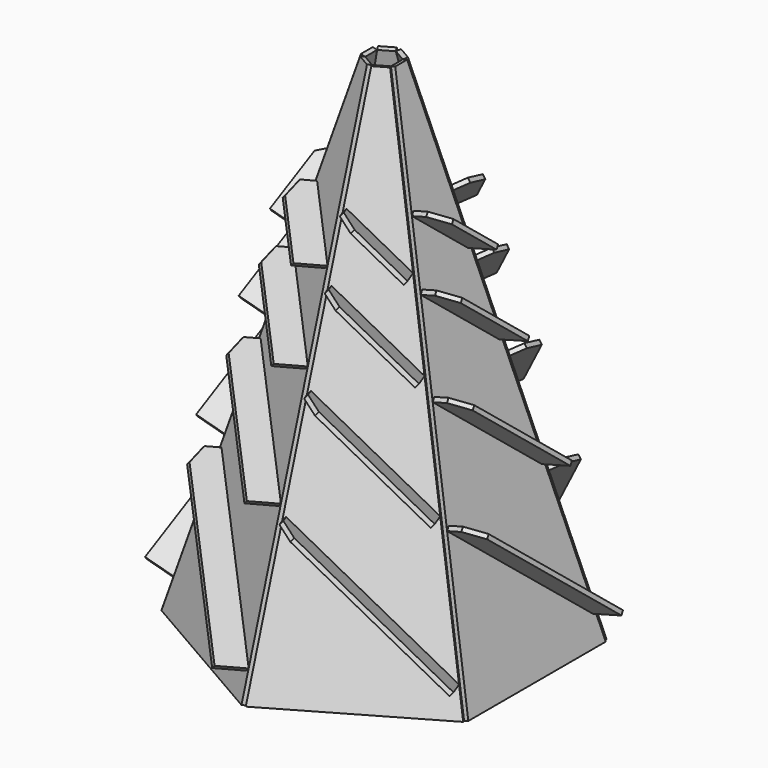
from build123d import *

# Parameters (mm, degrees)
F2_DEPTH = 3
F4_DEPTH = 20
F5_SIZE  = 10
F7_ANGLE = -15.2
F8_COUNT = 6


with BuildPart() as f2:
    # F1 (on Right) → F2 (new body)
    with BuildSketch(Plane.YZ):
        Polygon((53, 389.6280347522), (0, 39.6280347522), (116, 39.6280347522), (63, 389.6280347522), align=None)
    extrude(amount=F2_DEPTH)

    # F3 (on face) → F4 (join)
    with BuildSketch(Plane.YZ.offset(3)):
        Polygon((42.8633559657, 311.8839011901), (40.8857142857, 309.6280347522), (77.6795011771, 277.3721683144), (79.6571428571, 279.6280347522), align=None)
        Polygon((36.4869094646, 269.7752922205), (34.5092677846, 267.5194257826), (86.0080726057, 222.3721683144), (87.9857142857, 224.6280347522), align=None)
        Polygon((27.7917551449, 212.3544618074), (25.8141134649, 210.0985953695), (97.3652154629, 147.3721683144), (99.3428571429, 149.6280347522), align=None)
        Polygon((17.3575699613, 143.4494653117), (15.3799282813, 141.1935988738), (110.9937868914, 57.3721683144), (112.9714285714, 59.6280347522), align=None)
    extrude(amount=F4_DEPTH)

    # F5
    f5_edges = [f2.edges().sort_by_distance(p)[0] for p in [
        (23, 41.874535, 310.755968),
        (23, 35.498089, 268.647359),
        (23, 26.802934, 211.226529),
        (23, 16.368749, 142.321532),
    ]]
    chamfer(f5_edges, length=F5_SIZE)


with BuildPart() as f2_1:
    # F6: moved
    add(f2.part.moved(Location((100.458946839, -58, 0))))


with BuildPart() as f2_2:
    # F7: moved
    add(f2_1.part.rotate(Axis((100.458946839, 0, 39.6280347522), (0, 1, 0)), F7_ANGLE))


with BuildPart() as f8_1:
    # F8: instance of F2
    add(f2_2.part.rotate(Axis((0, 0, 15.9257594496), (0, 0, 1)), 1 * 360 / F8_COUNT))


with BuildPart() as f8_2:
    # F8: instance of F2
    add(f2_2.part.rotate(Axis((0, 0, 15.9257594496), (0, 0, 1)), 2 * 360 / F8_COUNT))


with BuildPart() as f8_3:
    # F8: instance of F2
    add(f2_2.part.rotate(Axis((0, 0, 15.9257594496), (0, 0, 1)), 3 * 360 / F8_COUNT))


with BuildPart() as f8_4:
    # F8: instance of F2
    add(f2_2.part.rotate(Axis((0, 0, 15.9257594496), (0, 0, 1)), 4 * 360 / F8_COUNT))


with BuildPart() as f8_5:
    # F8: instance of F2
    add(f2_2.part.rotate(Axis((0, 0, 15.9257594496), (0, 0, 1)), 5 * 360 / F8_COUNT))


solid = Compound([f2_2.part, f8_1.part, f8_2.part, f8_3.part, f8_4.part, f8_5.part])
